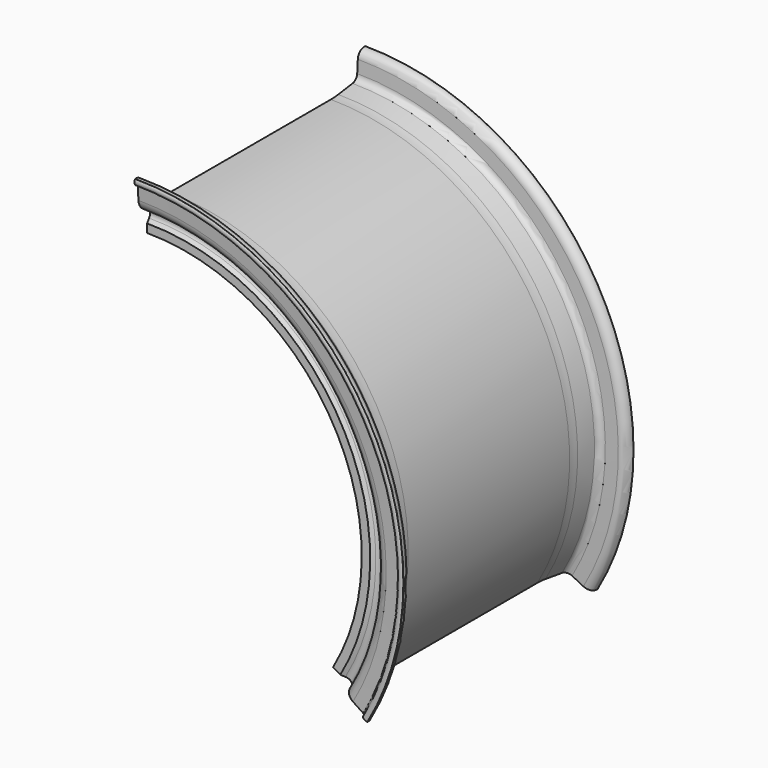
from build123d import *

# Parameters (mm, degrees)
F1_ANGLE = 120


with BuildPart() as f1:
    # F0 (on Right) → F1 (revolve)
    with BuildSketch(Plane.YZ):
        with BuildLine():
            Line((7.568332, 187.433995), (6.992842, 196.778169))
            ThreePointArc((6.992842, 196.778169), (4.808072, 201.191286), (0.125671, 202.715736))
            ThreePointArc((0.125671, 202.715736), (0.013868, 202.679033), (-0.069396, 202.595881))
            ThreePointArc((-0.069396, 202.595881), (-0.568055, 200.40736), (0.372822, 198.36946))
            ThreePointArc((0.372822, 198.36946), (0.462039, 198.30893), (0.568325, 198.290858))
            ThreePointArc((0.568325, 198.290858), (1.927968, 197.804933), (2.556248, 196.504927))
            Line((2.556248, 196.504927), (3.131739, 187.160753))
            ThreePointArc((3.131739, 187.160753), (5.439207, 181.509881), (10.703181, 178.420002))
            ThreePointArc((10.703181, 178.420002), (12.239371, 177.766664), (13.405881, 176.572519))
            ThreePointArc((13.405881, 176.572519), (14.156919, 173.881127), (13.235586, 171.243173))
            Line((13.235586, 171.243173), (11.357143, 168.493563))
            Line((11.357143, 168.493563), (11.357143, 162.093563))
            Line((11.357143, 162.093563), (20.580001, 163.581623))
            ThreePointArc((20.580001, 163.581623), (22.932444, 164.473795), (24.742949, 166.220802))
            Line((24.742949, 166.220802), (29.521095, 173.194263))
            ThreePointArc((29.521095, 173.194263), (31.764324, 175.191931), (34.680211, 175.913289))
            Line((34.680211, 175.913289), (108.638211, 175.913289))
            Line((108.638211, 175.913289), (184.838211, 175.913289))
            ThreePointArc((184.838211, 175.913289), (188.641095, 176.044334), (192.425937, 176.436845))
            Line((192.425937, 176.436845), (205.945926, 178.311539))
            ThreePointArc((205.945926, 178.311539), (211.624783, 181.272767), (214.144684, 187.160753))
            Line((214.144684, 187.160753), (214.720174, 196.504927))
            ThreePointArc((214.720174, 196.504927), (215.348455, 197.804933), (216.708097, 198.290858))
            ThreePointArc((216.708097, 198.290858), (216.814384, 198.30893), (216.9036, 198.36946))
            ThreePointArc((216.9036, 198.36946), (217.844477, 200.40736), (217.345818, 202.595881))
            ThreePointArc((217.345818, 202.595881), (217.262554, 202.679033), (217.150751, 202.715736))
            ThreePointArc((217.150751, 202.715736), (212.46835, 201.191286), (210.28358, 196.778169))
            Line((210.28358, 196.778169), (209.70809, 187.433995))
            ThreePointArc((209.70809, 187.433995), (208.364143, 184.293735), (205.335419, 182.714414))
            Line((205.335419, 182.714414), (191.81543, 180.83972))
            ThreePointArc((191.81543, 180.83972), (188.335116, 180.47879), (184.838211, 180.358289))
            Line((184.838211, 180.358289), (108.638211, 180.358289))
            Line((108.638211, 180.358289), (32.438211, 180.358289))
            ThreePointArc((32.438211, 180.358289), (28.941307, 180.47879), (25.460992, 180.83972))
            Line((25.460992, 180.83972), (11.941003, 182.714414))
            ThreePointArc((11.941003, 182.714414), (8.91228, 184.293735), (7.568332, 187.433995))
        make_face()
    revolve(axis=Axis((0, 97.833, 0), (0, 1, 0)), revolution_arc=F1_ANGLE)


solid = f1.part
